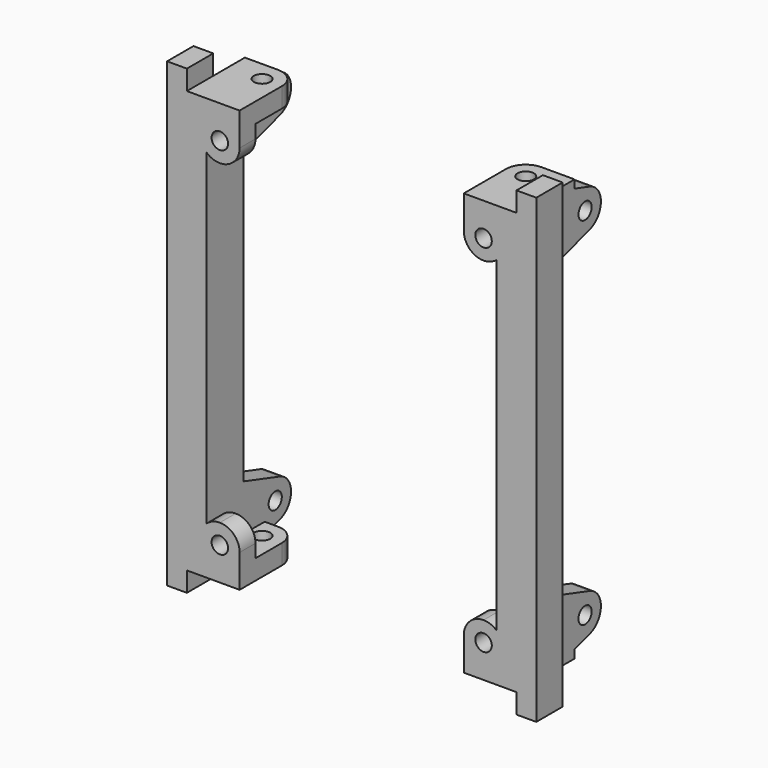
from build123d import *

# Parameters (mm, degrees)
F1_W     = 5
F1_H     = 3
F1_H_2   = 64
F2_DEPTH = 3
F1_R     = 1.25
F3_DEPTH = 3
F4_R     = 1.25
F5_DEPTH = 3
F6_R     = 1.25
F7_DEPTH = 3
F8_R     = 1.25
F9_DEPTH = 3


with BuildPart() as f2:
    # F1 (on offset) → F2 (new body)
    with BuildSketch(Plane.YZ.offset(25)):
        with Locations((1.903469, 64.53177)):
            Rectangle(F1_W, F1_H)
        with Locations((1.903469, 31.03177)):
            Rectangle(F1_W, F1_H_2)
        with Locations((1.903469, -2.46823)):
            Rectangle(F1_W, F1_H)
    extrude(amount=F2_DEPTH)

    # F1 (on offset) → F3 (join)
    with BuildSketch(Plane.YZ.offset(25)):
        with BuildLine():
            ThreePointArc((13.295593, 6.896052), (9.40347, 4.033942), (13.291445, 1.166199))
            ThreePointArc((13.291445, 1.166199), (14.818415, 2.251872), (15.403469, 4.03177))
            ThreePointArc((15.403469, 4.03177), (14.819703, 5.809919), (13.295593, 6.896052))
        make_face()
        with Locations((12.403469, 4.03177)):
            Circle(F1_R, mode=Mode.SUBTRACT)
        with BuildLine():
            ThreePointArc((15.403469, 58.03177), (14.818415, 59.811668), (13.291445, 60.897341))
            ThreePointArc((13.291445, 60.897341), (9.40347, 58.029598), (13.295593, 55.167488))
            ThreePointArc((13.295593, 55.167488), (14.819703, 56.253621), (15.403469, 58.03177))
        make_face()
        with Locations((12.403469, 58.03177)):
            Circle(F1_R, mode=Mode.SUBTRACT)
        with BuildLine():
            Line((13.291445, 60.897341), (6.403469, 63.03177))
            Line((6.403469, 63.03177), (6.403469, 53.02083))
            Line((6.403469, 53.02083), (13.295593, 55.167488))
            ThreePointArc((13.295593, 55.167488), (9.40347, 58.029598), (13.291445, 60.897341))
        make_face()
        with BuildLine():
            Line((6.403469, 9.04271), (6.403469, -0.96823))
            Line((6.403469, -0.96823), (13.291445, 1.166199))
            ThreePointArc((13.291445, 1.166199), (9.40347, 4.033942), (13.295593, 6.896052))
            Line((13.295593, 6.896052), (6.403469, 9.04271))
        make_face()
        with Locations((1.903469, 31.03177)):
            Rectangle(F1_W, F1_H_2)
        Polygon((6.403469, 63.03177), (4.403469, 63.03177), (4.403469, -0.96823), (6.403469, -0.96823), (6.403469, 9.04271), (6.403469, 53.02083), align=None)
    extrude(amount=-F3_DEPTH)

    # F4 (on face) → F5 (join)
    with BuildSketch(Plane.XZ.offset(0.596531)):
        with BuildLine():
            ThreePointArc((20, 61.03177), (17.87868, 60.15309), (17, 58.03177))
            ThreePointArc((17, 58.03177), (17.87868, 55.91045), (20, 55.03177))
            ThreePointArc((20, 55.03177), (22.12132, 55.91045), (23, 58.03177))
            ThreePointArc((23, 58.03177), (22.12132, 60.15309), (20, 61.03177))
        make_face()
        with Locations((20, 58.03177)):
            Circle(F4_R, mode=Mode.SUBTRACT)
        with BuildLine():
            Line((17, 61.03177), (17, 58.03177))
            ThreePointArc((17, 58.03177), (17.87868, 60.15309), (20, 61.03177))
            Line((20, 61.03177), (17, 61.03177))
        make_face()
        with BuildLine():
            ThreePointArc((20, 1.03177), (22.12132, 1.91045), (23, 4.03177))
            ThreePointArc((23, 4.03177), (22.12132, 6.15309), (20, 7.03177))
            ThreePointArc((20, 7.03177), (17.87868, 6.15309), (17, 4.03177))
            ThreePointArc((17, 4.03177), (17.87868, 1.91045), (20, 1.03177))
        make_face()
        with Locations((20, 4.03177)):
            Circle(F4_R, mode=Mode.SUBTRACT)
        with BuildLine():
            Line((17, 1.03177), (20, 1.03177))
            ThreePointArc((20, 1.03177), (17.87868, 1.91045), (17, 4.03177))
            Line((17, 4.03177), (17, 1.03177))
        make_face()
    extrude(amount=-F5_DEPTH)

    # F6 (on face) → F7 (join)
    with BuildSketch(Plane.XY.offset(63.03177)):
        with BuildLine():
            ThreePointArc((17, 7.403469), (20, 4.403469), (23, 7.403469))
            ThreePointArc((23, 7.403469), (22.12132, 9.524789), (20, 10.403469))
            ThreePointArc((20, 10.403469), (17.87868, 9.524789), (17, 7.403469))
        make_face()
        with Locations((20, 7.403469)):
            Circle(F6_R, mode=Mode.SUBTRACT)
        with BuildLine():
            ThreePointArc((20, 10.403469), (22.12132, 9.524789), (23, 7.403469))
            ThreePointArc((23, 7.403469), (20, 4.403469), (17, 7.403469))
            Line((17, 7.403469), (17, -0.596531))
            Line((17, -0.596531), (20, -0.596531))
            Line((20, -0.596531), (25, 4.403469))
            Line((25, 4.403469), (25, 6.403469))
            Line((25, 6.403469), (25, 10.403469))
            Line((25, 10.403469), (20, 10.403469))
        make_face()
        Polygon((25, 4.403469), (20, -0.596531), (22, -0.596531), (25, -0.596531), align=None)
        with BuildLine():
            ThreePointArc((22, 5.167401), (18.775255, 4.664856), (17, 7.403469))
            Line((17, 7.403469), (17, -0.596531))
            Line((17, -0.596531), (20, -0.596531))
            Line((20, -0.596531), (22, 1.403469))
            Line((22, 1.403469), (22, 5.167401))
        make_face()
        with BuildLine():
            ThreePointArc((20, 10.403469), (22.12132, 9.524789), (23, 7.403469))
            ThreePointArc((23, 7.403469), (22.956796, 6.896163), (22.828427, 6.403469))
            Line((22.828427, 6.403469), (25, 6.403469))
            Line((25, 6.403469), (25, 10.403469))
            Line((25, 10.403469), (20, 10.403469))
        make_face()
    extrude(amount=-F7_DEPTH)

    # F8 (on face) → F9 (join)
    with BuildSketch(Plane(origin=(0, 0, -0.96823), x_dir=(1, 0, 0), z_dir=(0, 0, -1))):
        with BuildLine():
            ThreePointArc((20, -10.403469), (22.12132, -9.524789), (23, -7.403469))
            ThreePointArc((23, -7.403469), (20, -4.403469), (17, -7.403469))
            ThreePointArc((17, -7.403469), (17.87868, -9.524789), (20, -10.403469))
        make_face()
        with Locations((20, -7.403469)):
            Circle(F8_R, mode=Mode.SUBTRACT)
        with BuildLine():
            Line((17, 0.596531), (17, -7.403469))
            ThreePointArc((17, -7.403469), (18.775255, -4.664856), (22, -5.167401))
            Line((22, -5.167401), (22, 0.596531))
            Line((22, 0.596531), (17, 0.596531))
        make_face()
        with BuildLine():
            ThreePointArc((23, -7.403469), (22.12132, -9.524789), (20, -10.403469))
            Line((20, -10.403469), (25, -10.403469))
            Line((25, -10.403469), (25, -6.403469))
            Line((25, -6.403469), (22.828427, -6.403469))
            ThreePointArc((22.828427, -6.403469), (22.956796, -6.896163), (23, -7.403469))
        make_face()
    extrude(amount=-F9_DEPTH)


with BuildPart() as f10_1:
    # F10: instance of F2
    add(f2.part.mirror(Plane.YZ))


solid = Compound([f2.part, f10_1.part])
